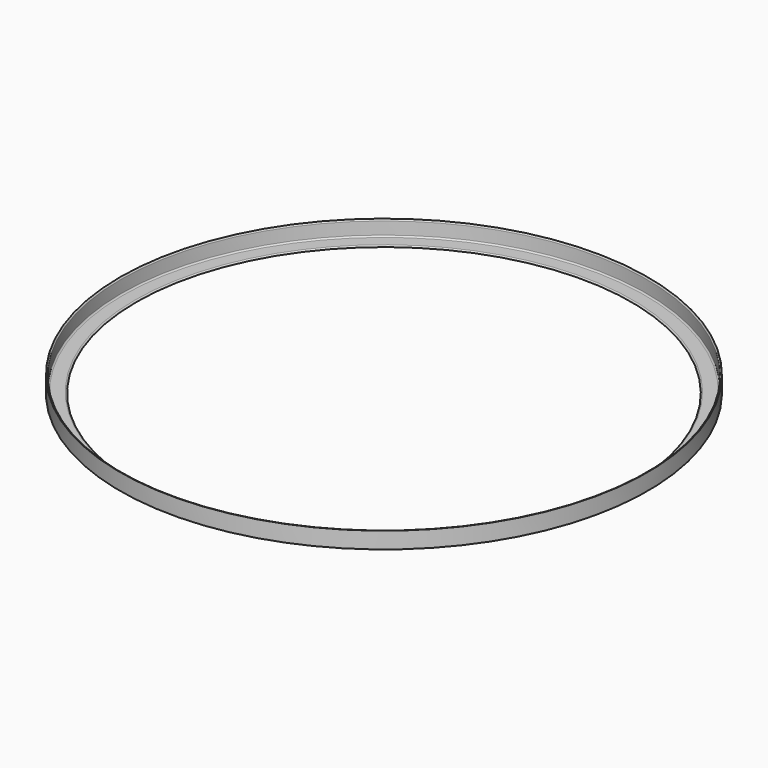
from build123d import *


with BuildPart() as f2:
    # F0 (on Front) → F2 (revolve)
    with BuildSketch(Plane.XZ):
        with BuildLine():
            ThreePointArc((3.175, 34.925), (2.2450640303, 37.1700640303), (0, 38.1))
            Line((0, 38.1), (0, 0))
            Line((0, 0), (38.1, 0))
            ThreePointArc((38.1, 0), (37.1700640303, 2.2450640303), (34.925, 3.175))
            Line((34.925, 3.175), (6.35, 3.175))
            ThreePointArc((6.35, 3.175), (4.1049359697, 4.1049359697), (3.175, 6.35))
            Line((3.175, 6.35), (3.175, 34.925))
        make_face()
    revolve(axis=Axis((609.6, 0, 0), (0, 0, 1)))


solid = f2.part
